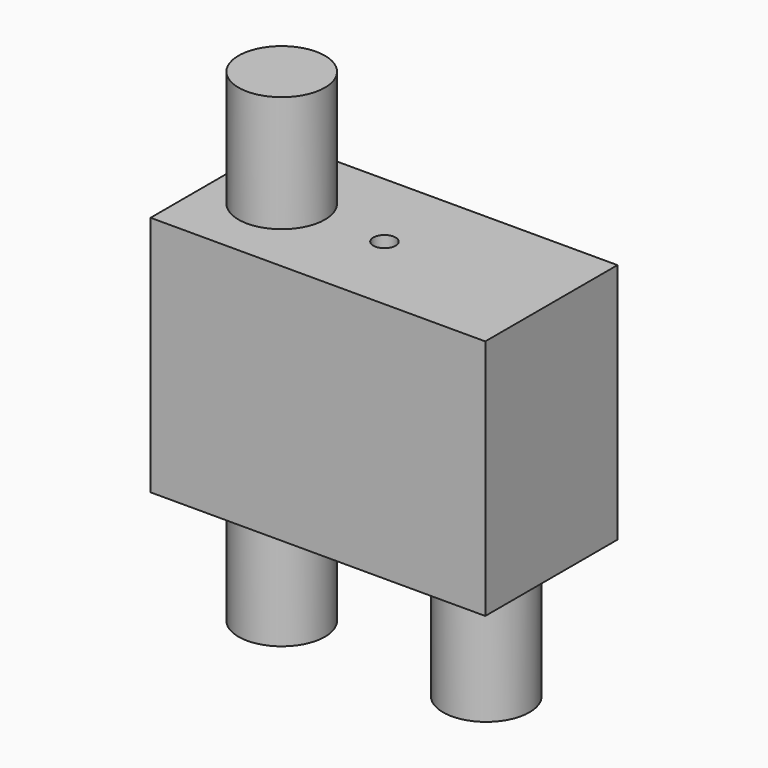
from build123d import *

# Parameters (mm, degrees)
F0_W     = 36
F0_H     = 26
F1_DEPTH = 17.77
F2_R     = 4.65
F3_DEPTH = 12.5
F2_R_2   = 1.2
F4_DEPTH = 10
F5_R     = 4.65
F6_DEPTH = 13.5


with BuildPart() as f1:
    # F0 (on Front) → F1 (new body)
    with BuildSketch(Plane.XZ):
        with Locations((18, 13)):
            Rectangle(F0_W, F0_H)
    extrude(amount=F1_DEPTH)

    # F2 (on face) → F3 (join)
    with BuildSketch(Plane.XY.offset(26)):
        with Locations((7, -8.885)):
            Circle(F2_R)
    extrude(amount=F3_DEPTH)

    # F2 (on face) → F4 (cut)
    with BuildSketch(Plane.XY.offset(26)):
        with Locations((18.05, -8.885)):
            Circle(F2_R_2)
    extrude(amount=-F4_DEPTH, mode=Mode.SUBTRACT)

    # F5 (on face) → F6 (join)
    with BuildSketch(Plane(origin=(0, 0, 0), x_dir=(1, 0, 0), z_dir=(0, 0, -1))):
        with Locations((7, 8.885)):
            Circle(F5_R)
        with Locations((29, 8.885)):
            Circle(F5_R)
    extrude(amount=F6_DEPTH)


solid = f1.part
